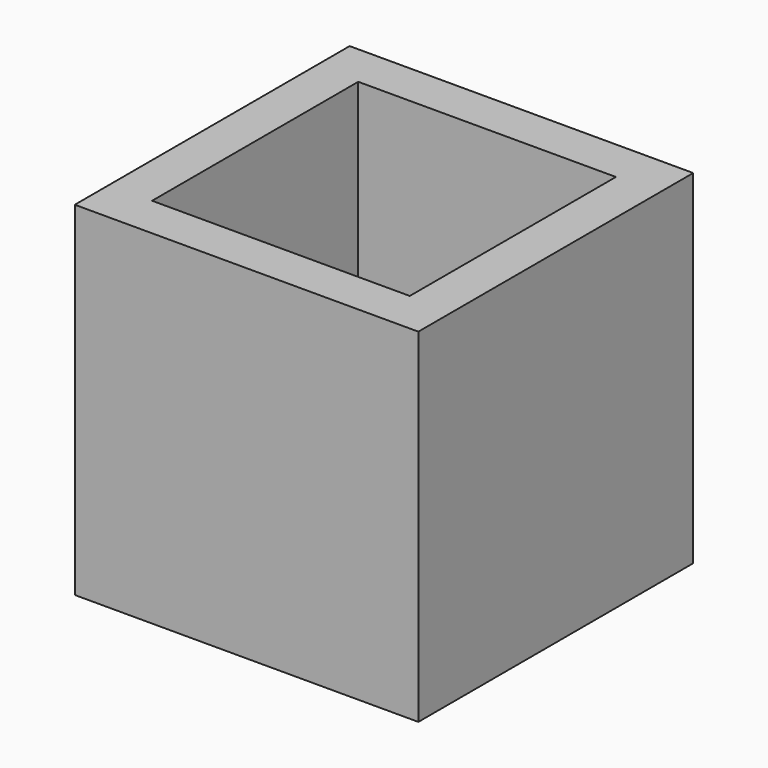
from build123d import *

# Parameters (mm, degrees)
F0_W     = 20
F0_H     = 20
F1_DEPTH = 20
F2_T     = -2.5


with BuildPart() as f1:
    # F0 (on Top) → F1 (new body)
    with BuildSketch(Plane.XY):
        Rectangle(F0_W, F0_H)
    extrude(amount=F1_DEPTH)

    # F2
    f2_openings = [f1.faces().sort_by_distance(p)[0] for p in [
        (0, 0, 20),
        (0, 0, 0),
    ]]
    offset(amount=F2_T, openings=f2_openings)


solid = f1.part
